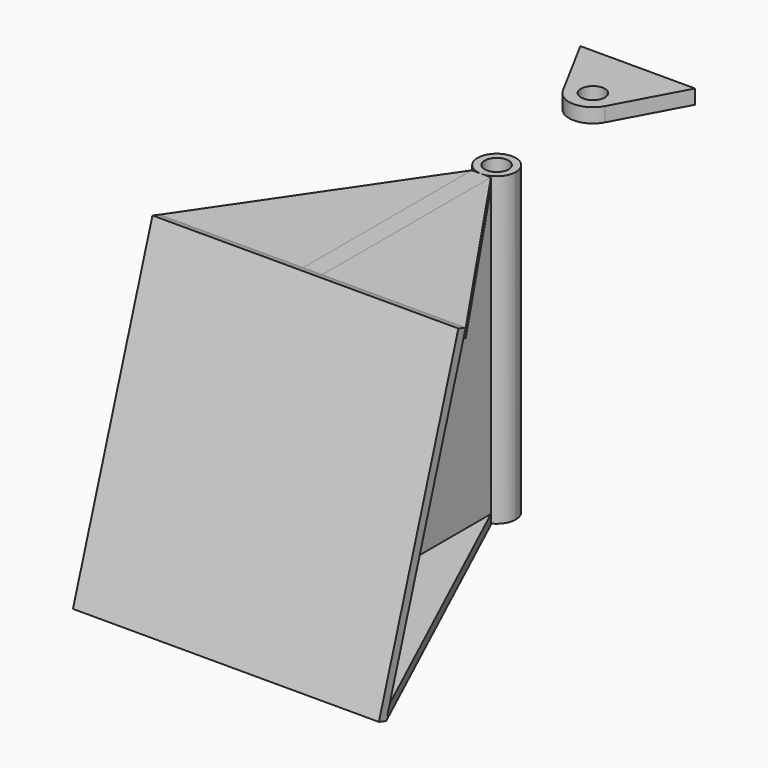
from build123d import *

# Parameters (mm, degrees)
F0_R      = 12.7
F0_R_2    = 7.9375
F1_DEPTH  = 203.2
F2_R      = 7.9375
F3_DEPTH  = 9.525
F5_DEPTH  = 6.35
F6_W      = 12.7
F6_H      = 213.6571239652
F6_W_2    = 95.25
F7_DEPTH  = 6.35
F11_DEPTH = 6.35
F12_DEPTH = 6.35


with BuildPart() as f1:
    # F0 (on Top) → F1 (new body)
    with BuildSketch(Plane.XY):
        Circle(F0_R)
        Circle(F0_R_2, mode=Mode.SUBTRACT)
    extrude(amount=-F1_DEPTH)

    # F4 (on Right) → F5 (join, symmetric)
    with BuildSketch(Plane.YZ):
        Polygon((-12.7, -203.2), (-12.7, 0), (-14.6078318357, 0), (-152.730970598, 0), (-218.7546528725, -203.2), align=None)
    extrude(amount=F5_DEPTH, both=True)

    # F6 (on face) → F7 (join)
    with BuildSketch(Plane(origin=(0, -138.1464606896, 44.8865060429), x_dir=(1, 0, 0), z_dir=(0, -0.9510565163, 0.3090169944))):
        with Locations((0, -154.0250274648)):
            Rectangle(F6_W, F6_H)
        with Locations((53.975, -154.0250274648)):
            Rectangle(F6_W_2, F6_H)
        with Locations((-53.975, -154.0250274648)):
            Rectangle(F6_W_2, F6_H)
    extrude(amount=F7_DEPTH)


with BuildPart() as f3:
    # F2 (on Top) → F3 (new body)
    with BuildSketch(Plane.XY):
        with BuildLine():
            ThreePointArc((13.9697287449, 72.3787812213), (15.3913136026, 76.0306491831), (15.875, 79.9194909885))
            ThreePointArc((15.875, 79.9194909885), (-3.8888418054, 95.3108045911), (-13.9697287449, 72.3787812213))
            ThreePointArc((-13.9697287449, 72.3787812213), (0, 64.0444909885), (13.9697287449, 72.3787812213))
        make_face()
        with Locations((0, 79.9194909885)):
            Circle(F2_R, mode=Mode.SUBTRACT)
        with BuildLine():
            ThreePointArc((-13.9697287449, 72.3787812213), (-3.8888418054, 95.3108045911), (15.875, 79.9194909885))
            ThreePointArc((15.875, 79.9194909885), (15.3913136026, 76.0306491831), (13.9697287449, 72.3787812213))
            Line((13.9697287449, 72.3787812213), (38.1, 117.081913205))
            Line((38.1, 117.081913205), (-38.1, 117.081913205))
            Line((-38.1, 117.081913205), (-13.9697287449, 72.3787812213))
        make_face()
    extrude(amount=F3_DEPTH)


with BuildPart() as f11:
    # F10 (on Top) → F11 (new body)
    with BuildSketch(Plane.XY):
        Polygon((-6.35, -152.730970598), (-6.35, -12.7), (-101.6, -152.730970598), align=None)
    extrude(amount=-F11_DEPTH)


with BuildPart() as f11b:
    # F10 (on Top) → F11, piece 2 (new body)
    with BuildSketch(Plane.XY):
        Polygon((101.6, -152.730970598), (6.35, -12.7), (6.35, -152.730970598), align=None)
    extrude(amount=-F11_DEPTH)


with BuildPart() as f12:
    # F9 (on offset) → F12 (new body)
    with BuildSketch(Plane(origin=(0, 0, -203.2), x_dir=(1, 0, 0), z_dir=(0, 0, -1))):
        Polygon((-6.35, 12.7), (-6.35, 218.7546528725), (-101.6, 218.7546528725), align=None)
    extrude(amount=-F12_DEPTH)


with BuildPart() as f12b:
    # F9 (on offset) → F12, piece 2 (new body)
    with BuildSketch(Plane(origin=(0, 0, -203.2), x_dir=(1, 0, 0), z_dir=(0, 0, -1))):
        Polygon((6.35, 12.7), (101.6, 218.7546528725), (6.35, 218.7546528725), align=None)
    extrude(amount=-F12_DEPTH)


solid = Compound([f1.part, f3.part, f11.part, f11b.part, f12.part, f12b.part])
